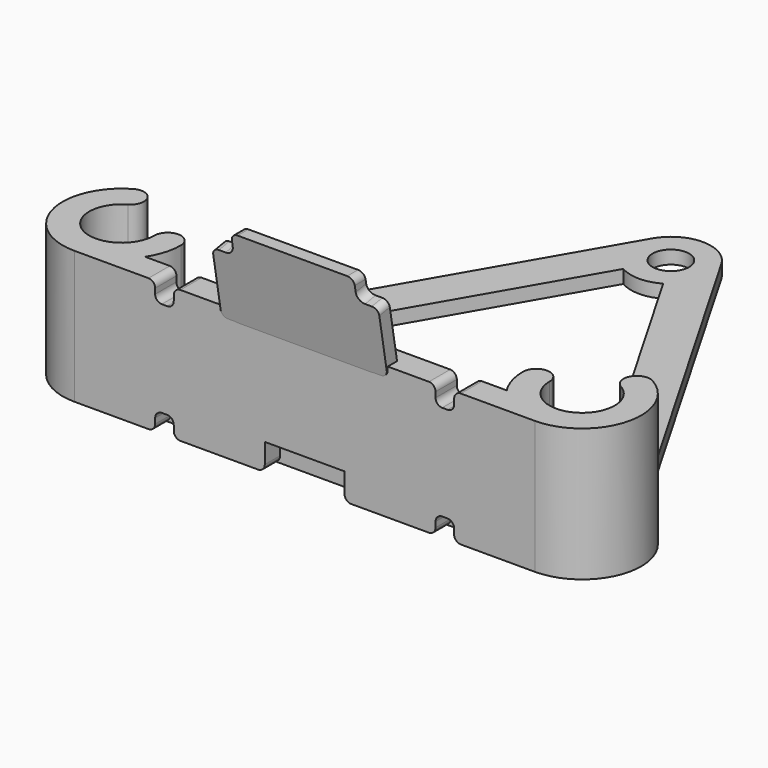
from build123d import *

# Parameters (mm, degrees)
SKETCH_R          = 2.75
PAD_DEPTH         = 2
PAD001_DEPTH      = 12.5
PAD001_DEPTH_BACK = 12.5
POCKET_DEPTH      = 76.0374603668
FILLET_R          = 1
PAD002_DEPTH      = 20
SKETCH005_W       = 2.8
SKETCH005_H       = 2.8
SKETCH005_W_2     = 12
SKETCH005_H_2     = 4
POCKET001_DEPTH   = 4
FILLET001_R       = 1


with BuildPart() as body:
    # Sketch → Pad (new body)
    with BuildSketch(Plane.XY):
        with BuildLine():
            ThreePointArc((5.1961524227, 43), (0, 46), (-5.1961524227, 43))
            Line((-39.8371685741, -17), (-5.1961524227, 43))
            ThreePointArc((-39.8371685741, -17), (-39.8371685741, -23), (-34.6410161514, -26))
            Line((34.6410161514, -26), (-34.6410161514, -26))
            ThreePointArc((34.6410161514, -26), (39.8371685741, -23), (39.8371685741, -17))
            Line((5.1961524227, 43), (39.8371685741, -17))
        make_face()
        with Locations((0, 40)):
            Circle(SKETCH_R, mode=Mode.SUBTRACT)
        with Locations((-34.6410161514, -20)):
            Circle(SKETCH_R, mode=Mode.SUBTRACT)
        with Locations((34.6410161514, -20)):
            Circle(SKETCH_R, mode=Mode.SUBTRACT)
        with BuildLine():
            ThreePointArc((-28.6410161514, -20), (-29.4448637287, -17), (-31.6410161514, -14.8038475773))
            Line((-31.6410161514, -14.8038475773), (-3, 34.8038475773))
            ThreePointArc((-3, 34.8038475773), (0, 34), (3, 34.8038475773))
            Line((3, 34.8038475773), (31.6410161514, -14.8038475773))
            ThreePointArc((31.6410161514, -14.8038475773), (29.4448637287, -17), (28.6410161514, -20))
            Line((28.6410161514, -20), (-28.6410161514, -20))
        make_face(mode=Mode.SUBTRACT)
    extrude(amount=PAD_DEPTH)

    # Sketch001 → Pad001 (join, two sides)
    with BuildSketch(Plane.YZ) as pad001_sk:
        Polygon((-26, 2), (-31.20944533, 31.5442325904), (-29.1785921062, 31.5442325904), (-24.8188379166, 6.8188379166), (-20, 2), align=None)
    extrude(amount=PAD001_DEPTH)
    extrude(pad001_sk.sketch, amount=-PAD001_DEPTH_BACK)

    # Sketch003 (on Face7 of Pad001) → Pocket (cut, through all)
    with BuildSketch(Plane(origin=(0, -24.8739839269, -4.385954484), x_dir=(1, 0, 0), z_dir=(0, -0.984807753, -0.1736481777))):
        with BuildLine():
            ThreePointArc((-10.5, 33.2344681254), (-9.6161165235, 33.6005846489), (-9.25, 34.4844681254))
            Line((-9.25, 36.4844681254), (-9.25, 34.4844681254))
            Line((-12.5, 36.4844681254), (-9.25, 36.4844681254))
            Line((-12.5, 33.2344681254), (-12.5, 36.4844681254))
            Line((-10.5, 33.2344681254), (-12.5, 33.2344681254))
        make_face()
        with BuildLine():
            ThreePointArc((9.25, 34.4844681254), (9.6161165235, 33.6005846489), (10.5, 33.2344681254))
            Line((10.5, 33.2344681254), (12.5, 33.2344681254))
            Line((12.5, 33.2344681254), (12.5, 36.4844681254))
            Line((12.5, 36.4844681254), (9.25, 36.4844681254))
            Line((9.25, 36.4844681254), (9.25, 34.4844681254))
        make_face()
        with BuildLine():
            ThreePointArc((10.5, 23.2344681254), (9.25, 21.9844681254), (10.5, 20.7344681254))
            Line((10.5, 20.7344681254), (12.5, 20.7344681254))
            Line((12.5, 23.2344681254), (12.5, 20.7344681254))
            Line((10.5, 23.2344681254), (12.5, 23.2344681254))
        make_face()
        with BuildLine():
            ThreePointArc((-10.5, 20.7344681254), (-9.25, 21.9844681254), (-10.5, 23.2344681254))
            Line((-10.5, 23.2344681254), (-12.5, 23.2344681254))
            Line((-12.5, 20.7344681254), (-12.5, 23.2344681254))
            Line((-10.5, 20.7344681254), (-12.5, 20.7344681254))
        make_face()
    extrude(amount=-POCKET_DEPTH, mode=Mode.SUBTRACT)

    # Fillet
    fillet_edges = [body.edges().sort_by_distance(p)[0] for p in [
        (9.25, -30.194019, 31.544233),
        (-9.25, -30.194019, 31.544233),
        (-12.5, -29.660281, 28.517256),
        (12.5, -29.660281, 28.517256),
        (12.5, -27.489679, 16.207159),
        (-12.5, -27.489679, 16.207159),
        (-12.5, -27.923799, 18.669178),
        (12.5, -27.923799, 18.669178),
    ]]
    fillet(fillet_edges, radius=FILLET_R)


with BuildPart() as body001:
    # Sketch004 → Pad002 (new body)
    with BuildSketch(Plane.XY):
        with BuildLine():
            ThreePointArc((-37.0910161514, -15.7564755215), (-37.0910161514, -24.2435244785), (-29.7410161514, -20))
            ThreePointArc((-25.7410161514, -20), (-27.7410161514, -18), (-29.7410161514, -20))
            ThreePointArc((-27.211345903, -24.9), (-26.116520119, -22.5579224763), (-25.7410161514, -20))
            Line((-27.211345903, -24.9), (27.211345903, -24.9))
            ThreePointArc((25.7410161514, -20), (26.116520119, -22.5579224763), (27.211345903, -24.9))
            ThreePointArc((29.7410161514, -20), (27.7410161514, -18), (25.7410161514, -20))
            ThreePointArc((29.7410161514, -20), (37.0910161514, -24.2435244785), (37.0910161514, -15.7564755215))
            ThreePointArc((39.0910161514, -12.2923739063), (36.3589653438, -13.0244247139), (37.0910161514, -15.7564755215))
            ThreePointArc((34.6410159769, -28.9), (43.2377559828, -22.3034895857), (39.0910161514, -12.2923739063))
            Line((-34.6409781744, -28.9), (34.6410159769, -28.9))
            ThreePointArc((-39.0910161514, -12.2923739063), (-43.2377510908, -22.3035078429), (-34.6409781744, -28.8999999999))
            ThreePointArc((-37.0910161514, -15.7564755215), (-36.3589653438, -13.0244247139), (-39.0910161514, -12.2923739063))
        make_face()
    extrude(amount=PAD002_DEPTH)

    # Sketch005 (on Face11 of Pad002) → Pocket001 (cut)
    with BuildSketch(Plane.XZ.offset(28.9)):
        with Locations((-21.0999810988, 1.4)):
            Rectangle(SKETCH005_W, SKETCH005_H)
        with Locations((21.1000189012, 1.4)):
            Rectangle(SKETCH005_W, SKETCH005_H)
        with Locations((21.1000189012, 18.6)):
            Rectangle(SKETCH005_W, SKETCH005_H)
        with Locations((-21.0999810988, 18.6)):
            Rectangle(SKETCH005_W, SKETCH005_H)
        with Locations((1.89012e-05, 2)):
            Rectangle(SKETCH005_W_2, SKETCH005_H_2)
    extrude(amount=-POCKET001_DEPTH, mode=Mode.SUBTRACT)

    # Fillet001
    fillet001_edges = [body001.edges().sort_by_distance(p)[0] for p in [
        (-22.499981, -26.9, 17.2),
        (-22.499981, -26.9, 20),
        (-19.699981, -26.9, 17.2),
        (-19.699981, -26.9, 20),
        (22.500019, -26.9, 17.2),
        (22.500019, -26.9, 20),
        (19.700019, -26.9, 20),
        (19.700019, -26.9, 17.2),
        (-19.699981, -26.9, 2.8),
        (-19.699981, -26.9, 0),
        (-22.499981, -26.9, 2.8),
        (-22.499981, -26.9, 0),
        (19.700019, -26.9, 2.8),
        (19.700019, -26.9, 0),
        (22.500019, -26.9, 2.8),
        (22.500019, -26.9, 0),
        (6.000019, -26.9, 0),
        (-5.999981, -26.9, 0),
    ]]
    fillet(fillet001_edges, radius=FILLET001_R)


solid = Compound([body.part, body001.part])
